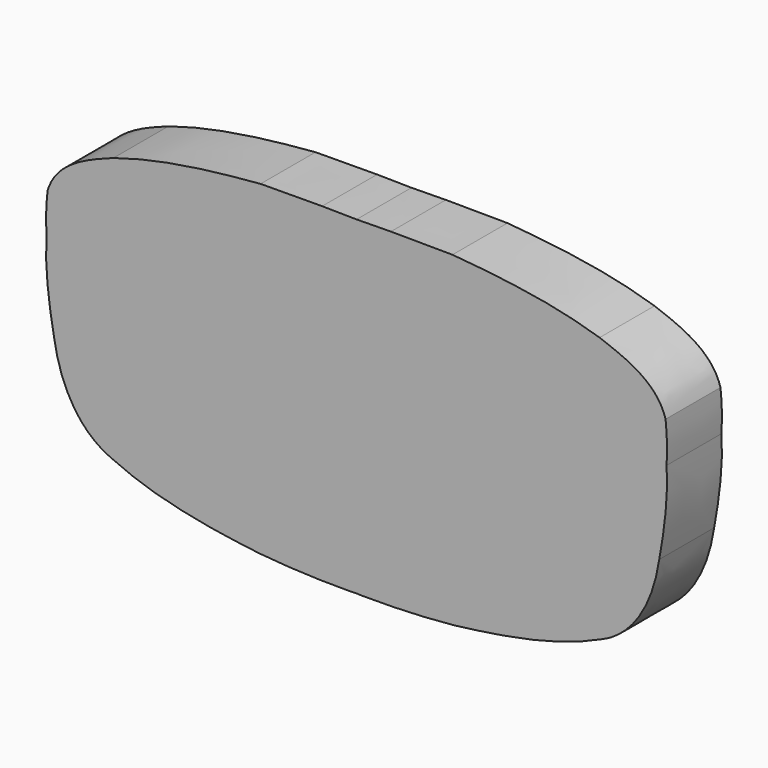
from build123d import *

# Parameters (mm, degrees)
F1_DEPTH = 5.5


with BuildPart() as f1:
    # F0 (on Front) → F1 (new body)
    with BuildSketch(Plane.XZ):
        with BuildLine():
            add(Edge.make_bspline(
                [(0.545475, -13.217901), (-5.679566, -13.041343), (-12.04253, -12.536955), (-17.890133, -10.243843)],
                knots=[0, 0, 0, 0, 1, 1, 1, 1], degree=3))
            add(Edge.make_bspline(
                [(7.799464, -12.905961), (5.389812, -13.14695), (2.966463, -13.232379), (0.545475, -13.217901)],
                knots=[0, 0, 0, 0, 1, 1, 1, 1], degree=3))
            add(Edge.make_bspline(
                [(19.659893, -10.034152), (15.953931, -11.773092), (11.831585, -12.417124), (7.799464, -12.905961)],
                knots=[0, 0, 0, 0, 1, 1, 1, 1], degree=3))
            add(Edge.make_bspline(
                [(24.251078, -2.917157), (23.828041, -5.790574), (22.489394, -8.827624), (19.659893, -10.034152)],
                knots=[0, 0, 0, 0, 1, 1, 1, 1], degree=3))
            add(Edge.make_bspline(
                [(23.910789, 8.292081), (25.354344, 4.760817), (24.927912, 0.754724), (24.251078, -2.917157)],
                knots=[0, 0, 0, 0, 1, 1, 1, 1], degree=3))
            add(Edge.make_bspline(
                [(16.162307, 11.349634), (18.859135, 10.754972), (21.866955, 10.319444), (23.910789, 8.292081)],
                knots=[0, 0, 0, 0, 1, 1, 1, 1], degree=3))
            add(Edge.make_bspline(
                [(10.040137, 12.302453), (12.093639, 12.254484), (14.122984, 11.638951), (16.162307, 11.349634)],
                knots=[0, 0, 0, 0, 1, 1, 1, 1], degree=3))
            add(Edge.make_bspline(
                [(5.840921, 12.727369), (7.228458, 12.588891), (8.584784, 12.489569), (10.040137, 12.302453)],
                knots=[0, 0, 0, 0, 1, 1, 1, 1], degree=3))
            add(Edge.make_bspline(
                [(-2.754622, 13.2179), (0.124277, 13.240252), (2.98532, 13.064458), (5.840921, 12.727369)],
                knots=[0, 0, 0, 0, 1, 1, 1, 1], degree=3))
            add(Edge.make_bspline(
                [(-7.687344, 13.186855), (-6.540888, 13.180534), (-4.467626, 13.219534), (-2.754622, 13.2179)],
                knots=[0, 0, 0, 0, 1, 1, 1, 1], degree=3))
            add(Edge.make_bspline(
                [(-19.475533, 11.179714), (-15.660784, 12.389315), (-11.659683, 12.847782), (-7.687344, 13.186855)],
                knots=[0, 0, 0, 0, 1, 1, 1, 1], degree=3))
            add(Edge.make_bspline(
                [(-24.757551, 7.141359), (-24.089533, 9.476703), (-21.532475, 10.416983), (-19.475533, 11.179714)],
                knots=[0, 0, 0, 0, 1, 1, 1, 1], degree=3))
            add(Edge.make_bspline(
                [(-23.277215, -3.579052), (-24.471103, -0.164982), (-25.169127, 3.528212), (-24.757551, 7.141359)],
                knots=[0, 0, 0, 0, 1, 1, 1, 1], degree=3))
            add(Edge.make_bspline(
                [(-17.890133, -10.243843), (-20.652075, -9.037428), (-22.426691, -6.386289), (-23.277215, -3.579052)],
                knots=[0, 0, 0, 0, 1, 1, 1, 1], degree=3))
        make_face()
    extrude(amount=F1_DEPTH)

    # F2: F1 across plane


with BuildPart() as f1_1:
    add(f1.part)
    add(f1.part.mirror(Plane.YZ))


solid = f1_1.part
